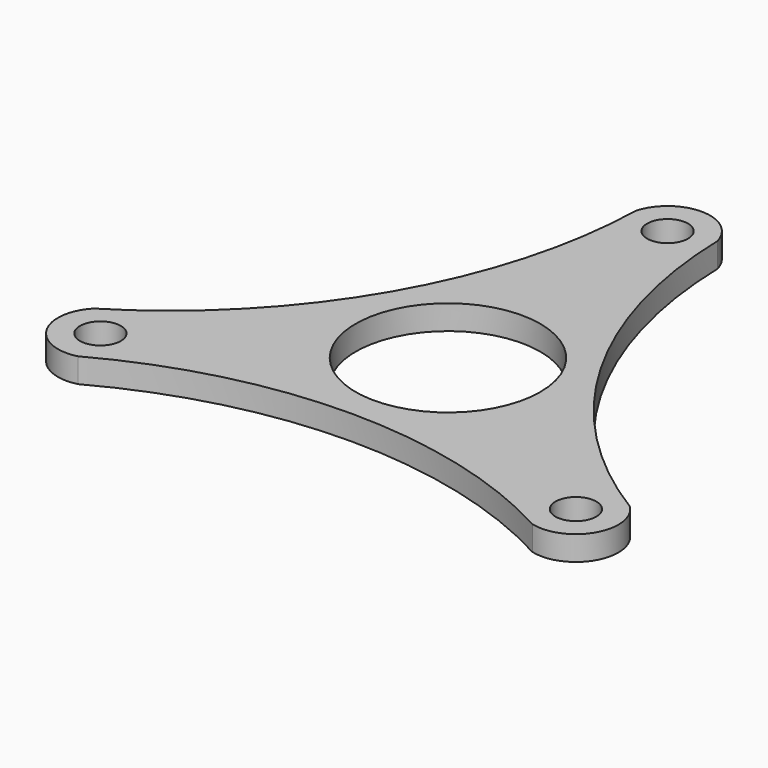
from build123d import *

# Parameters (mm, degrees)
F0_R     = 3.175
F0_R_2   = 14.351
F1_DEPTH = 3.81


with BuildPart() as f1:
    # F0 (on Top) → F1 (new body)
    with BuildSketch(Plane.XY):
        with BuildLine():
            ThreePointArc((41.669829, -16.725739), (16.228802, 9.369703), (6.35, 44.45))
            ThreePointArc((6.35, 44.45), (0, 49.258785), (-6.35, 44.45))
            ThreePointArc((-6.35, 44.45), (-16.228802, 9.369703), (-41.669829, -16.725739))
            ThreePointArc((-41.669829, -16.725739), (-42.659359, -24.629393), (-35.319829, -27.724261))
            ThreePointArc((-35.319829, -27.724261), (0, -18.739407), (35.319829, -27.724261))
            ThreePointArc((35.319829, -27.724261), (42.659359, -24.629393), (41.669829, -16.725739))
        make_face()
        with Locations((-36.946207, -21.330903)):
            Circle(F0_R, mode=Mode.SUBTRACT)
        Circle(F0_R_2, mode=Mode.SUBTRACT)
        with Locations((36.946207, -21.330903)):
            Circle(F0_R, mode=Mode.SUBTRACT)
        with Locations((0, 42.661805)):
            Circle(F0_R, mode=Mode.SUBTRACT)
    extrude(amount=F1_DEPTH)


solid = f1.part
